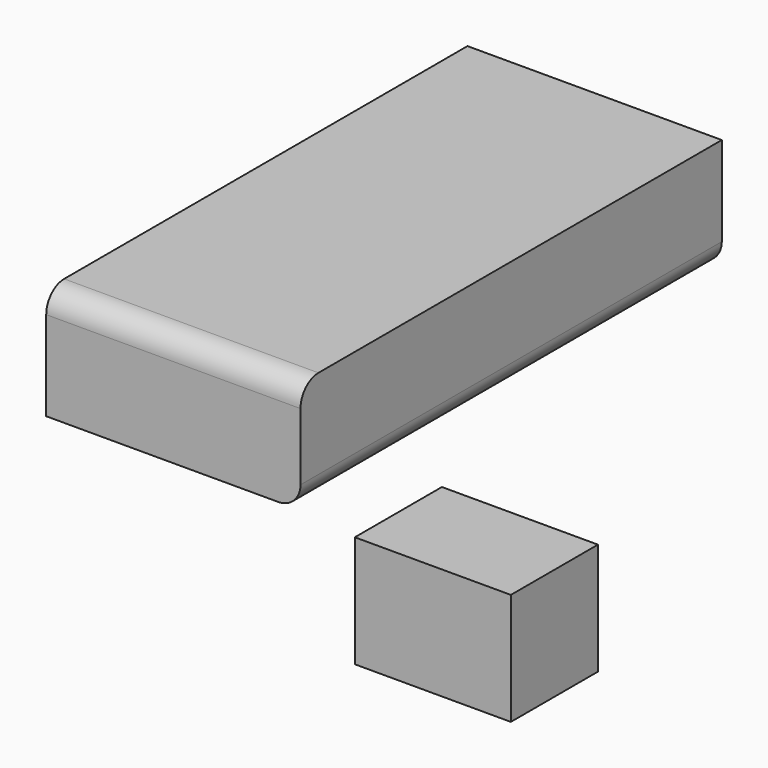
from build123d import *

# Parameters (mm, degrees)
F0_W     = 35.443451
F0_H     = 24.728127
F0_W_2   = 57.768882
F0_H_2   = 119.611576
F1_DEPTH = 25.4
F2_R     = 5.08


with BuildPart() as f1:
    # F0 (on Top) → F1 (new body)
    with BuildSketch(Plane.XY):
        with Locations((-17.721725, 12.364064)):
            Rectangle(F0_W, F0_H)
        with Locations((-108.824417, 100.012444)):
            Rectangle(F0_W_2, F0_H_2)
    extrude(amount=F1_DEPTH)

    # F2
    f2_edges = [f1.edges().sort_by_distance(p)[0] for p in [
        (-108.824417, 40.206656, 25.4),
        (-79.939976, 100.012444, 0),
    ]]
    fillet(f2_edges, radius=F2_R)


solid = f1.part
